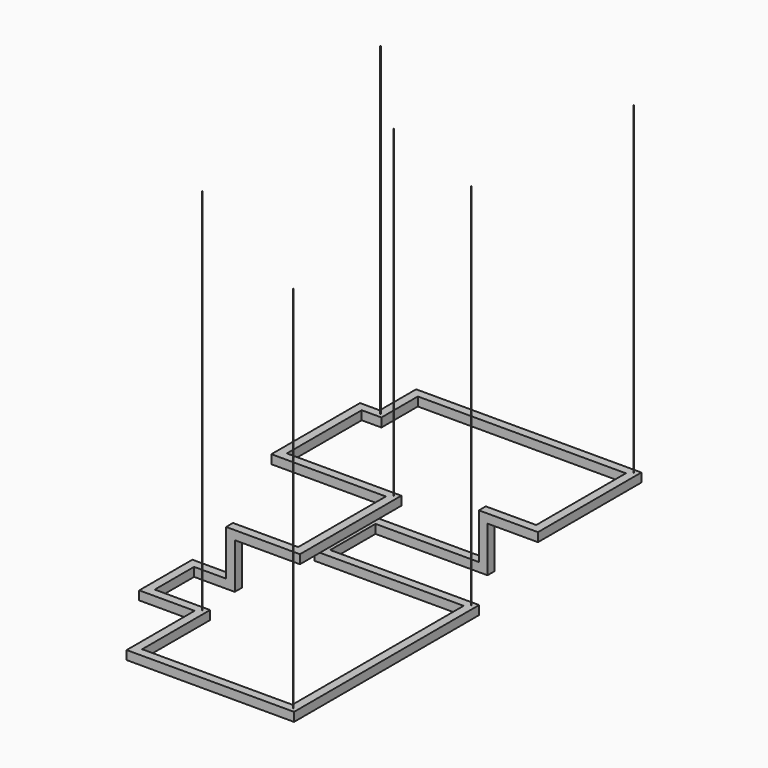
from build123d import *

# Parameters (mm, degrees)
F1_DEPTH  = 35
F2_W      = 35
F2_H      = 35
F3_DEPTH  = 150
F6_DEPTH  = 35
F7_DEPTH  = 1
F8_DEPTH  = 1
F9_DEPTH  = 1
F10_R     = 1
F11_DEPTH = 1500
F12_R     = 1
F13_DEPTH = 1315


with BuildPart() as f1:
    # F0 (on Top) → F1 (new body)
    with BuildSketch(Plane.XY):
        Polygon((460, 822.5), (460, 367.5), (255, 367.5), (255, 332.5), (495, 332.5), (495, 857.5), (-420, 857.5), (-420, 672.5), (-500, 672.5), (-500, 222.5), (-35, 222.5), (-35, -222.5), (-300, -222.5), (-300, -257.5), (0, -257.5), (0, 257.5), (-465, 257.5), (-465, 637.5), (-385, 637.5), (-385, 822.5), align=None)
    extrude(amount=F1_DEPTH)

    # F2 (on Top) → F3 (join)
    with BuildSketch(Plane.XY):
        with Locations((-282.5, -240)):
            Rectangle(F2_W, F2_H)
        with Locations((272.5, 350)):
            Rectangle(F2_W, F2_H)
    extrude(amount=-F3_DEPTH)

    # F5 (on offset) → F6 (join)
    with BuildSketch(Plane(origin=(0, 0, -150), x_dir=(1, 0, 0), z_dir=(0, 0, -1))):
        Polygon((-200, -67.5), (-200, -367.5), (290, -367.5), (290, -332.5), (-165, -332.5), (-165, -102.5), (440, -102.5), (440, 837.5), (-240, 837.5), (-240, 492.5), (-465, 492.5), (-465, 222.5), (-265, 222.5), (-265, 257.5), (-430, 257.5), (-430, 457.5), (-205, 457.5), (-205, 802.5), (405, 802.5), (405, -67.5), align=None)
    extrude(amount=F6_DEPTH)


with BuildPart() as f7:
    # F7 (new): a face of the model
    f7_faces = [f1.part.faces().sort_by_distance(p)[0] for p in [
        (-184.9299966822, 217.5, -185),
    ]]
    extrude(f7_faces, amount=F7_DEPTH)


with BuildPart() as f8:
    # F8 (new): a face of the model
    f8_faces = [f1.part.faces().sort_by_distance(p)[0] for p in [
        (-265, -240, -92.5),
    ]]
    extrude(f8_faces, amount=F8_DEPTH)


with BuildPart() as f8b:
    # F8#2 (new): a face of the model
    f8_2_faces = [f1.part.faces().sort_by_distance(p)[0] for p in [
        (290, 350, -92.5),
    ]]
    extrude(f8_2_faces, amount=F8_DEPTH)


with BuildPart() as f9:
    # F9 (new): a face of the model
    f9_faces = [f1.part.faces().sort_by_distance(p)[0] for p in [
        (37.5, 837.444062366, 0),
    ]]
    extrude(f9_faces, amount=F9_DEPTH)


with BuildPart() as f11:
    # F10 (on face) → F11 (new body)
    with BuildSketch(Plane.XY.offset(-150)):
        with Locations((-222.5, -475)):
            Circle(F10_R)
    extrude(amount=F11_DEPTH)


with BuildPart() as f11b:
    # F10 (on face) → F11, piece 2 (new body)
    with BuildSketch(Plane.XY.offset(-150)):
        with Locations((422.5, 85)):
            Circle(F10_R)
    extrude(amount=F11_DEPTH)


with BuildPart() as f11c:
    # F10 (on face) → F11, piece 3 (new body)
    with BuildSketch(Plane.XY.offset(-150)):
        with Locations((422.5, -820)):
            Circle(F10_R)
    extrude(amount=F11_DEPTH)


with BuildPart() as f13:
    # F12 (on face) → F13 (new body)
    with BuildSketch(Plane.XY.offset(35)):
        with Locations((-402.5, 655)):
            Circle(F12_R)
    extrude(amount=F13_DEPTH)


with BuildPart() as f13b:
    # F12 (on face) → F13, piece 2 (new body)
    with BuildSketch(Plane.XY.offset(35)):
        with Locations((477.5, 840)):
            Circle(F12_R)
    extrude(amount=F13_DEPTH)


with BuildPart() as f13c:
    # F12 (on face) → F13, piece 3 (new body)
    with BuildSketch(Plane.XY.offset(35)):
        with Locations((-17.5, 240)):
            Circle(F12_R)
    extrude(amount=F13_DEPTH)


solid = Compound([f1.part, f7.part, f8.part, f8b.part, f9.part, f11.part, f11b.part, f11c.part, f13.part, f13b.part, f13c.part])
